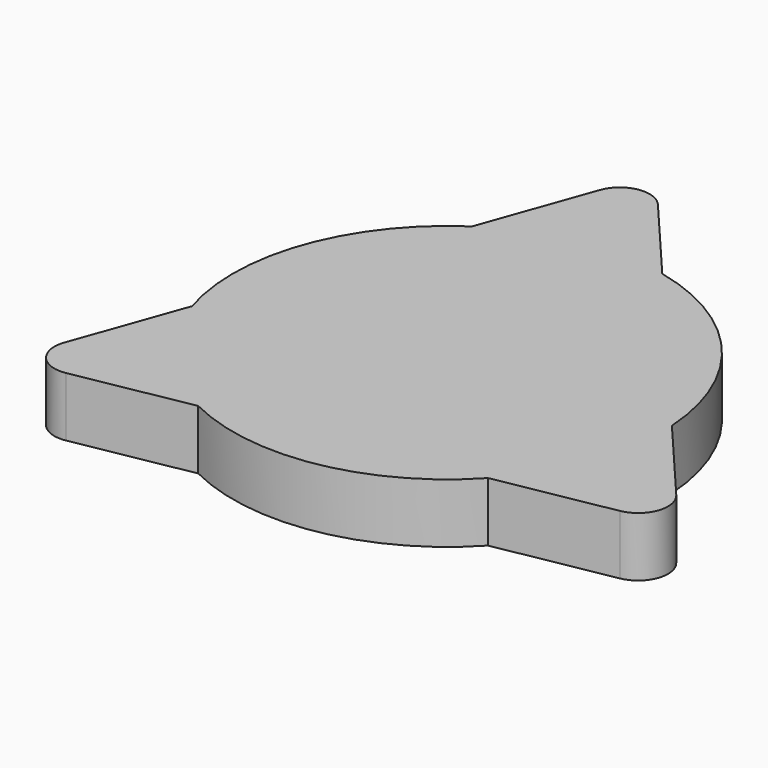
from build123d import *

# Parameters (mm, degrees)
F1_DEPTH = 12.7


with BuildPart() as f1:
    # F0 (on Top) → F1 (new body)
    with BuildSketch(Plane.XY):
        with BuildLine():
            Line((10.177437, 44.657234), (-6.033554, 63.750174))
            ThreePointArc((-6.033554, 63.750174), (-12.013129, 65.88727), (-16.853696, 61.777353))
            Line((-16.853696, 61.777353), (-25.283171, 38.191753))
            ThreePointArc((-25.283171, 38.191753), (-43.130422, 15.41478), (-43.763018, -13.514698))
            Line((-43.763018, -13.514698), (-52.192493, -37.100298))
            ThreePointArc((-52.192493, -37.100298), (-51.053485, -43.34731), (-45.07391, -45.484405))
            Line((-45.07391, -45.484405), (-20.433443, -40.991745))
            ThreePointArc((-20.433443, -40.991745), (8.21562, -45.059432), (33.58558, -31.142536))
            Line((33.58558, -31.142536), (58.226047, -26.649876))
            ThreePointArc((58.226047, -26.649876), (63.066614, -22.53996), (61.927605, -16.292948))
            Line((61.927605, -16.292948), (45.716614, 2.799992))
            ThreePointArc((45.716614, 2.799992), (34.914802, 29.644651), (10.177437, 44.657234))
        make_face()
    extrude(amount=F1_DEPTH)


solid = f1.part
